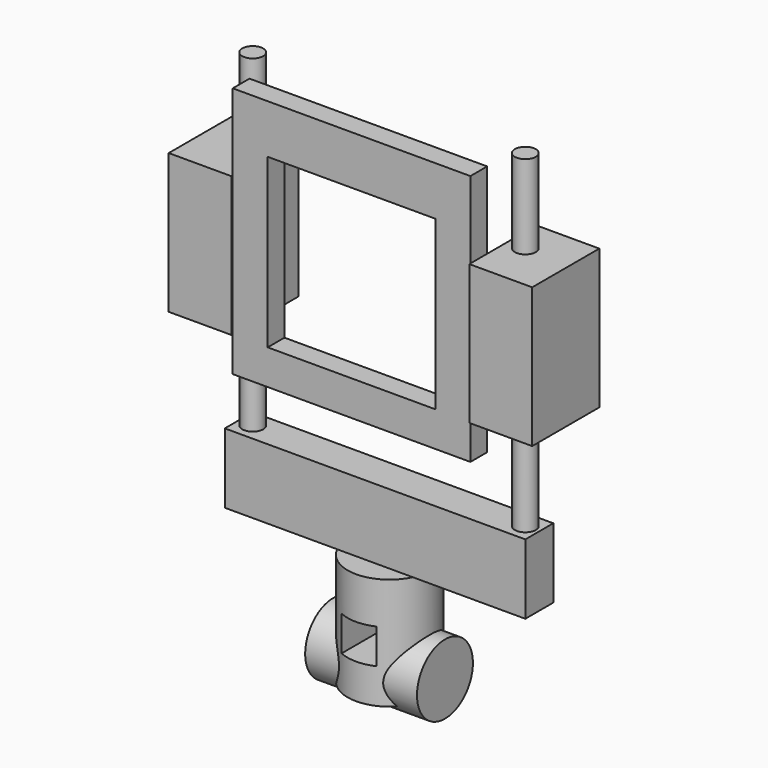
from build123d import *

# Parameters (mm, degrees)
CYLINDER_R        = 7.5
CYLINDER_DEPTH    = 240
CYLINDER001_R     = 7.5
CYLINDER001_DEPTH = 240
BOX008_W          = 45
BOX008_H          = 60
BOX008_DEPTH      = 100
BOX009_W          = 45
BOX009_H          = 60
BOX009_DEPTH      = 100
BOX010_W          = 120
BOX010_H          = 30
BOX010_DEPTH      = 120
BOX006_W          = 170
BOX006_H          = 15
BOX006_DEPTH      = 180
BOX018_W          = 25
BOX018_H          = 25
BOX018_DEPTH      = 100
CYLINDER002_R     = 30
CYLINDER002_DEPTH = 80
CYLINDER003_R     = 25
CYLINDER003_DEPTH = 80
BOX007_W          = 215
BOX007_H          = 25
BOX007_DEPTH      = 50


with BuildPart() as cylinder:
    # Cylinder → Cylinder (new body)
    with BuildSketch(Plane(origin=(-12.5, 33.5, -55), x_dir=(1, 0, 0), z_dir=(0, 0, 1))):
        Circle(CYLINDER_R)
    extrude(amount=CYLINDER_DEPTH)


with BuildPart() as cylinder001:
    # Cylinder001 → Cylinder001 (new body)
    with BuildSketch(Plane(origin=(182.5, 33.5, -55), x_dir=(1, 0, 0), z_dir=(0, 0, 1))):
        Circle(CYLINDER001_R)
    extrude(amount=CYLINDER001_DEPTH)


with BuildPart() as cube004:
    # Box008 → Box008 (new body)
    with BuildSketch(Plane(origin=(-45, -1, 25), x_dir=(1, 0, 0), z_dir=(0, 0, 1))):
        with Locations((22.5, 30)):
            Rectangle(BOX008_W, BOX008_H)
    extrude(amount=BOX008_DEPTH)


with BuildPart() as cube005:
    # Box009 → Box009 (new body)
    with BuildSketch(Plane(origin=(170, -1, 25), x_dir=(1, 0, 0), z_dir=(0, 0, 1))):
        with Locations((22.5, 30)):
            Rectangle(BOX009_W, BOX009_H)
    extrude(amount=BOX009_DEPTH)


with BuildPart() as cube006:
    # Box010 → Box010 (new body)
    with BuildSketch(Plane(origin=(25, -1, 25), x_dir=(1, 0, 0), z_dir=(0, 0, 1))):
        with Locations((60, 15)):
            Rectangle(BOX010_W, BOX010_H)
    extrude(amount=BOX010_DEPTH)


with BuildPart() as cut002:
    # Box006 → Box006 (new body)
    with BuildSketch(Plane.XY):
        with Locations((85, 7.5)):
            Rectangle(BOX006_W, BOX006_H)
    extrude(amount=BOX006_DEPTH)

    # Cut002: cut Cube006
    add(cube006.part, mode=Mode.SUBTRACT)


with BuildPart() as cube014:
    # Box018 → Box018 (new body)
    with BuildSketch(Plane(origin=(72.5, 76.5, -155), x_dir=(1, 0, 0), z_dir=(0, -1, 0))):
        with Locations((12.5, 12.5)):
            Rectangle(BOX018_W, BOX018_H)
    extrude(amount=BOX018_DEPTH)


with BuildPart() as cylinder002:
    # Cylinder002 → Cylinder002 (new body)
    with BuildSketch(Plane(origin=(85, 34, -180), x_dir=(1, 0, 0), z_dir=(0, 0, 1))):
        Circle(CYLINDER002_R)
    extrude(amount=CYLINDER002_DEPTH)


with BuildPart() as cut005:
    # Cylinder003 → Cylinder003 (new body)
    with BuildSketch(Plane(origin=(45, 33.5, -165), x_dir=(0, 0, -1), z_dir=(1, 0, 0))):
        Circle(CYLINDER003_R)
    extrude(amount=CYLINDER003_DEPTH)

    # Fusion001: union Cylinder002
    add(cylinder002.part)

    # Cut005: cut Cube014
    add(cube014.part, mode=Mode.SUBTRACT)


with BuildPart() as standard:
    # Box007 → Box007 (new body)
    with BuildSketch(Plane(origin=(-22.5, 21, -100), x_dir=(1, 0, 0), z_dir=(0, 0, 1))):
        with Locations((107.5, 12.5)):
            Rectangle(BOX007_W, BOX007_H)
    extrude(amount=BOX007_DEPTH)

    # Fusion002: union Cylinder, Cylinder001, Cube004, Cube005, Cut002, Cut005
    add(cylinder.part)
    add(cylinder001.part)
    add(cube004.part)
    add(cube005.part)
    add(cut002.part)
    add(cut005.part)


solid = standard.part
